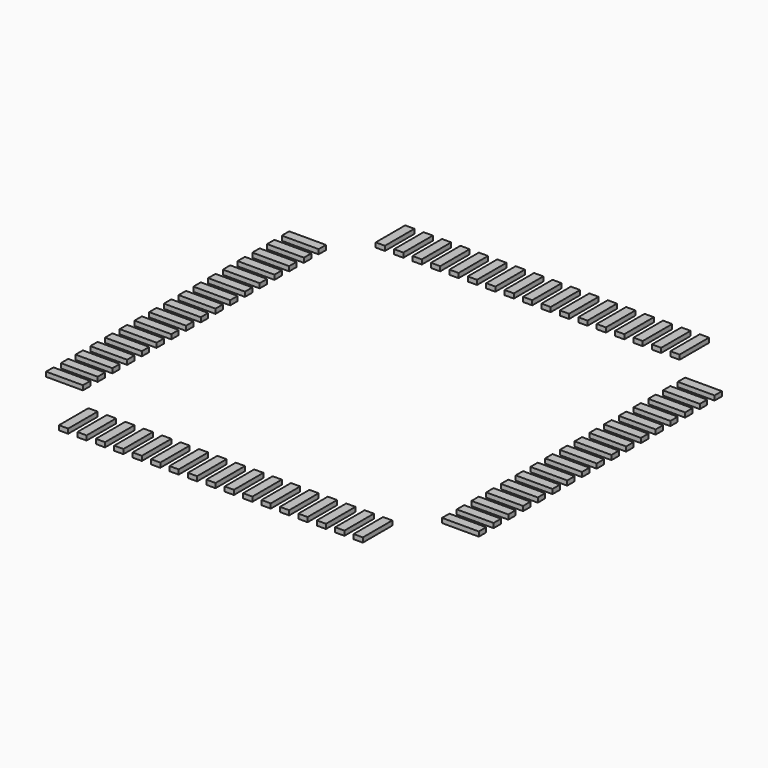
from build123d import *

# Parameters (mm, degrees)
BOX035_W                = 0.2
BOX035_H                = 0.8
BOX035_DEPTH            = 0.1
ARRAY013_X_COUNT        = 17
ARRAY013_X_PITCH        = 0.4
ARRAY013_Y_COUNT        = 2
ARRAY013_Y_PITCH        = 8.6
LINK001_PLACEMENT_ANGLE = 90


with BuildPart() as array013:
    # Box035 → Box035 (new body)
    with BuildSketch(Plane(origin=(-3.3, 3.9, 0), x_dir=(1, 0, 0), z_dir=(0, 0, 1))):
        with Locations((0.1, 0.4)):
            Rectangle(BOX035_W, BOX035_H)
    extrude(amount=BOX035_DEPTH)

    # Array013 X: Array013 ×17


with BuildPart() as array013_1:
    add(array013.part)
    with Locations(*[(i * ARRAY013_X_PITCH, 0, 0) for i in range(1, ARRAY013_X_COUNT)]):
        add(array013.part)

    # Array013 Y: Array013 ×2


with BuildPart() as array013_2:
    add(array013_1.part)
    with Locations(*[(0, -i * ARRAY013_Y_PITCH, 0) for i in range(1, ARRAY013_Y_COUNT)]):
        add(array013_1.part)


with BuildPart() as array019:
    # Link001 base: copy of Array013
    add(array013_2.part)


with BuildPart() as array019_1:
    # Link001 placement: moved
    add(array019.part.rotate(Axis((0, 0, 0), (0, 0, 1)), LINK001_PLACEMENT_ANGLE))


with BuildPart() as pins:
    # Fusion023 base: copy of Array013
    add(array013_2.part)

    # Fusion023: union Array019
    add(array019_1.part)


solid = pins.part
